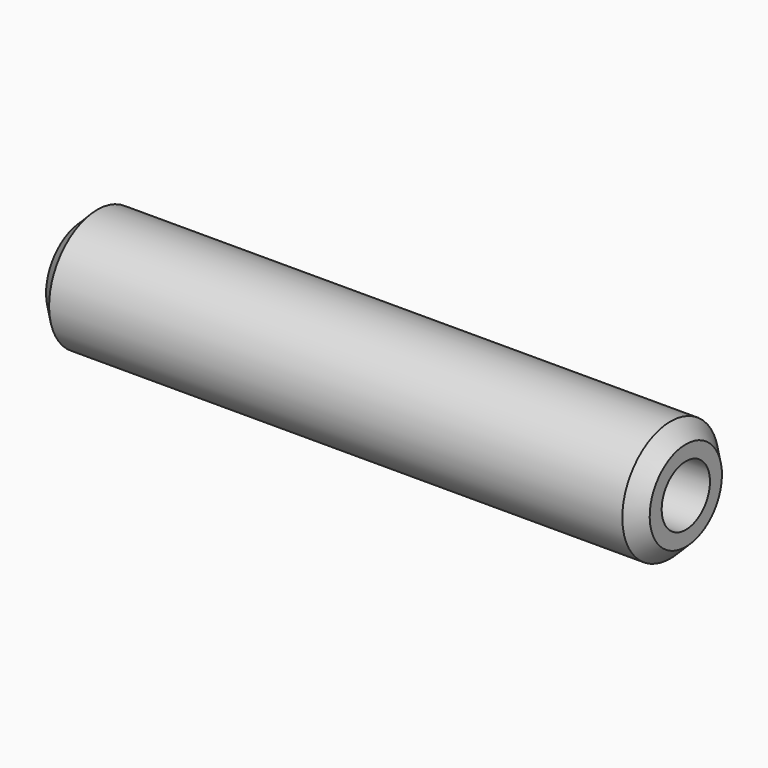
from build123d import *

# Parameters (mm, degrees)
F2_SIZE = 1.6002


with BuildPart() as f1:
    # F0 (on Front) → F1 (revolve)
    with BuildSketch(Plane.XZ):
        with BuildLine():
            Line((0, 6.35), (0, 3.175))
            Line((0, 3.175), (12.21324, 3.175))
            ThreePointArc((12.21324, 3.175), (12.7, 4.6101), (13.18676, 3.175))
            Line((13.18676, 3.175), (31.26324, 3.175))
            ThreePointArc((31.26324, 3.175), (31.75, 4.6101), (32.23676, 3.175))
            Line((32.23676, 3.175), (50.31324, 3.175))
            ThreePointArc((50.31324, 3.175), (50.8, 4.6101), (51.28676, 3.175))
            Line((51.28676, 3.175), (63.5, 3.175))
            Line((63.5, 3.175), (63.5, 6.35))
            Line((63.5, 6.35), (0, 6.35))
        make_face()
    revolve(axis=Axis((38.581822, 0, 0), (1, 0, 0)))

    # F2
    f2_edges = [f1.edges().sort_by_distance(p)[0] for p in [
        (0, 0, -6.35),
        (63.5, 0, -6.35),
    ]]
    chamfer(f2_edges, length=F2_SIZE)


solid = f1.part
